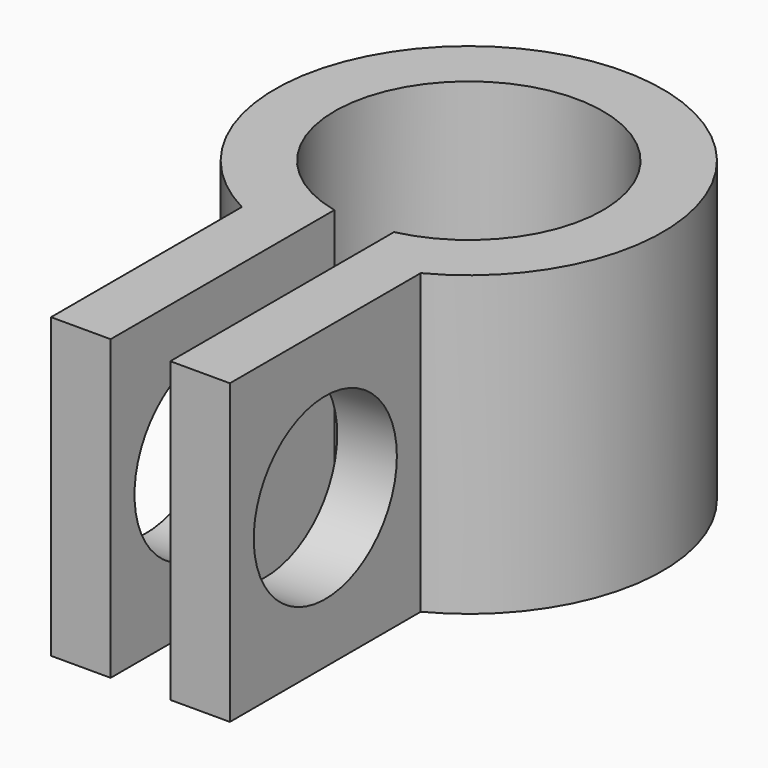
from build123d import *

# Parameters (mm, degrees)
SKETCH001_R      = 1.5
EXTRUDE001_DEPTH = 10
EXTRUDE_DEPTH    = 5


with BuildPart() as extrude001:
    # Sketch001 (on Face6 of Extrude) → Extrude001 (new body, symmetric)
    with BuildSketch(Plane.YZ.offset(1.5)):
        with Locations((-4.883141, 2.5)):
            Circle(SKETCH001_R)
    extrude(amount=EXTRUDE001_DEPTH, both=True)


with BuildPart() as cut:
    # Sketch → Extrude (new body)
    with BuildSketch(Plane.XY):
        with BuildLine():
            ThreePointArc((0.5, -2.193741), (0, 2.25), (-0.5, -2.193741))
            Line((-0.5, -2.193741), (-0.5, -6.883141))
            Line((-0.5, -6.883141), (-1.5, -6.883141))
            Line((-1.5, -6.883141), (-1.5, -2.883141))
            ThreePointArc((1.5, -2.883141), (0, 3.25), (-1.5, -2.883141))
            Line((1.5, -6.883141), (1.5, -2.883141))
            Line((0.5, -6.883141), (1.5, -6.883141))
            Line((0.5, -2.193741), (0.5, -6.883141))
        make_face()
    extrude(amount=EXTRUDE_DEPTH)

    # Cut: cut Extrude001
    add(extrude001.part, mode=Mode.SUBTRACT)


solid = cut.part
